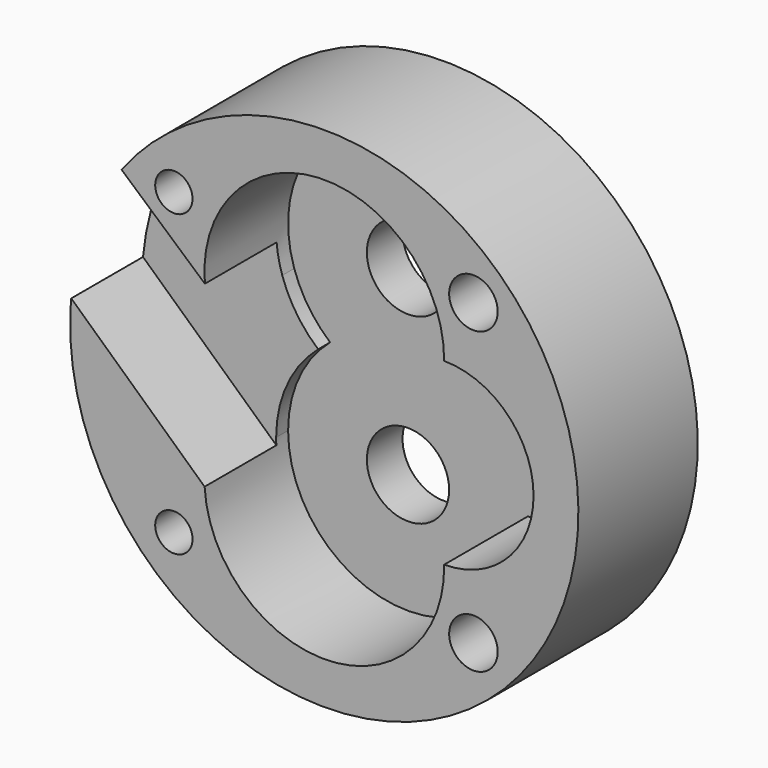
from build123d import *

# Parameters (mm, degrees)
F0_R     = 3.9624
F0_R_2   = 5.1562
F1_DEPTH = 31.6992
F0_R_3   = 8.7376
F2_DEPTH = 9.4742
F4_DEPTH = 19.05


with BuildPart() as f1:
    # F0 (on Front) → F1 (new body)
    with BuildSketch(Plane.XZ):
        with BuildLine():
            ThreePointArc((-53.9418684482, 1.8908869118), (-0.945588575, -53.9667164764), (53.975, 0))
            ThreePointArc((53.975, 0), (14.14638739, 52.0881977881), (-46.559704912, 27.3037452286))
            Line((-46.559704912, 27.3037452286), (-24.1670829241, 11.1631898628))
            ThreePointArc((-24.1670829241, 11.1631898628), (-3.9962450465, 44.3324916596), (25.4631440543, 19.0498953495))
            ThreePointArc((25.4631440543, 19.0498953495), (44.449999882, -0.0021200322), (25.4589040116, -19.049908932))
            ThreePointArc((25.4589040116, -19.049908932), (0.2533724347, -44.9959238654), (-25.463489659, -19.5566330526))
            Line((-25.463489659, -19.5566330526), (-53.9418684482, 1.8908869118))
        make_face()
        with Locations((-31.9465398788, -31.6641107202)):
            Circle(F0_R, mode=Mode.SUBTRACT)
        with Locations((31.6804601212, -31.6641107202)):
            Circle(F0_R_2, mode=Mode.SUBTRACT)
        with Locations((-31.9465398788, 31.9628892798)):
            Circle(F0_R, mode=Mode.SUBTRACT)
        with Locations((31.6804601212, 31.9628892798)):
            Circle(F0_R_2, mode=Mode.SUBTRACT)
        with BuildLine():
            Line((-24.1670829241, 11.1631898628), (-46.559704912, 27.3037452286))
            ThreePointArc((-46.559704912, 27.3037452286), (-51.8323731265, 15.0567500169), (-53.9418684482, 1.8908869118))
            Line((-53.9418684482, 1.8908869118), (-25.463489659, -19.5566330526))
            ThreePointArc((-25.463489659, -19.5566330526), (-23.1304283544, -8.8860032088), (-16.5413044773, -0.174576067))
            ThreePointArc((-16.5413044773, -0.174576067), (-21.1288768106, 4.9732552376), (-24.1670829241, 11.1631898628))
        make_face()
    extrude(amount=F1_DEPTH)

    # F0 (on Front) → F2 (join)
    with BuildSketch(Plane.XZ):
        with BuildLine():
            ThreePointArc((25.4631440543, 19.0498953495), (-3.9962450465, 44.3324916596), (-24.1670829241, 11.1631898628))
            ThreePointArc((-24.1670829241, 11.1631898628), (-21.1288768106, 4.9732552376), (-16.5413044773, -0.174576067))
            ThreePointArc((-16.5413044773, -0.174576067), (-23.1304283544, -8.8860032088), (-25.463489659, -19.5566330526))
            ThreePointArc((-25.463489659, -19.5566330526), (0.2533724347, -44.9959238654), (25.4589040116, -19.049908932))
            ThreePointArc((25.4589040116, -19.049908932), (23.0233343799, -8.6563729399), (16.5413044773, -0.174576067))
            ThreePointArc((16.5413044773, -0.174576067), (23.0973699676, 8.4653284163), (25.4631440543, 19.0498953495))
        make_face()
        with Locations((0, -19.5336844772)):
            Circle(F0_R_3, mode=Mode.SUBTRACT)
        with Locations((0, 19.1845323432)):
            Circle(F0_R_3, mode=Mode.SUBTRACT)
        with BuildLine():
            ThreePointArc((25.4589040116, -19.049908932), (44.449999882, -0.0021200322), (25.4631440543, 19.0498953495))
            ThreePointArc((25.4631440543, 19.0498953495), (23.0973699676, 8.4653284163), (16.5413044773, -0.174576067))
            ThreePointArc((16.5413044773, -0.174576067), (23.0233343799, -8.6563729399), (25.4589040116, -19.049908932))
        make_face()
    extrude(amount=F2_DEPTH)

    # F3 (on face) → F4 (cut)
    with BuildSketch(Plane.XZ.offset(31.6992)):
        with BuildLine():
            ThreePointArc((-16.5413044773, -0.174576067), (-22.6355522481, 7.5217022119), (-25.3653949946, 16.9514696437))
            Line((-25.3653949946, 16.9514696437), (-43.0676051814, 32.5343204776))
            ThreePointArc((-43.0676051814, 32.5343204776), (-50.3270192168, 19.5061980343), (-53.7439555951, 4.988773596))
            Line((-53.7439555951, 4.988773596), (-25.4202754774, -21.0167309709))
            ThreePointArc((-25.4202754774, -21.0167309709), (-23.4263186039, -9.5538333302), (-16.5413044773, -0.174576067))
        make_face()
    extrude(amount=-F4_DEPTH, mode=Mode.SUBTRACT)


solid = f1.part
